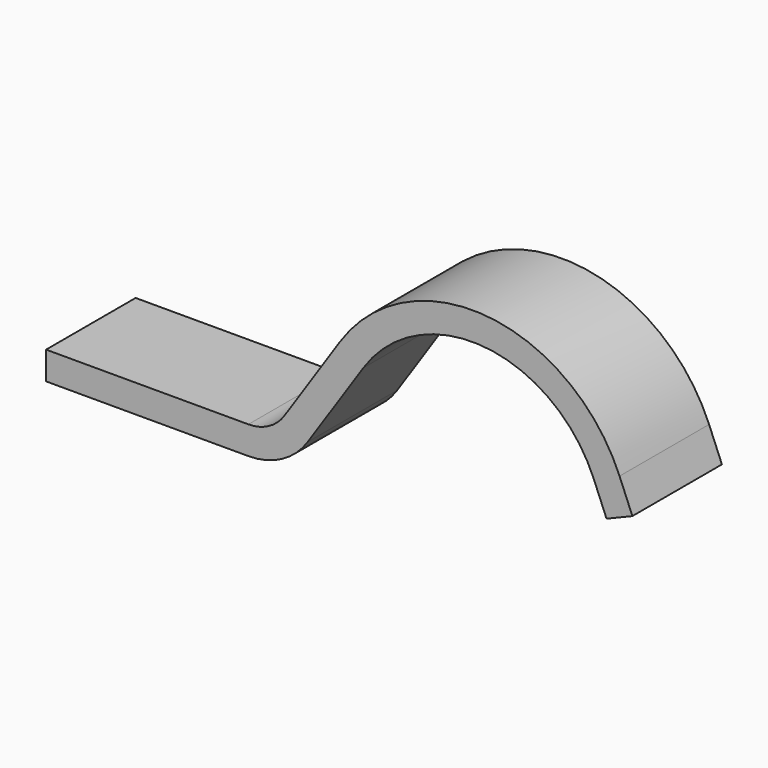
from build123d import *

# Parameters (mm, degrees)
PAD_DEPTH = 0.5


with BuildPart() as part:
    # Sketch → Pad (new body, symmetric)
    with BuildSketch(Plane.XZ):
        with BuildLine():
            Line((2.336739, 1.282811), (2.835603, 2.029241))
            ThreePointArc((4.893073, 1.825782), (3.925332, 2.544311), (2.835603, 2.029241))
            Line((4.893073, 1.825782), (5.00769, 1.548541))
            Line((5.00769, 1.548541), (5.238725, 1.644055))
            Line((5.238725, 1.644055), (5.124108, 1.921297))
            ThreePointArc((5.124108, 1.921297), (3.949934, 2.793098), (2.627751, 2.168156))
            Line((2.128886, 1.421726), (2.627751, 2.168156))
            ThreePointArc((1.807568, 1.25), (1.989732, 1.295625), (2.128886, 1.421726))
            Line((0, 1.25), (1.807568, 1.25))
            Line((0, 1), (0, 1.25))
            Line((0, 1), (1.807568, 1))
            ThreePointArc((1.807568, 1), (2.10757, 1.075138), (2.336739, 1.282811))
        make_face()
    extrude(amount=PAD_DEPTH, both=True)


solid = part.part
